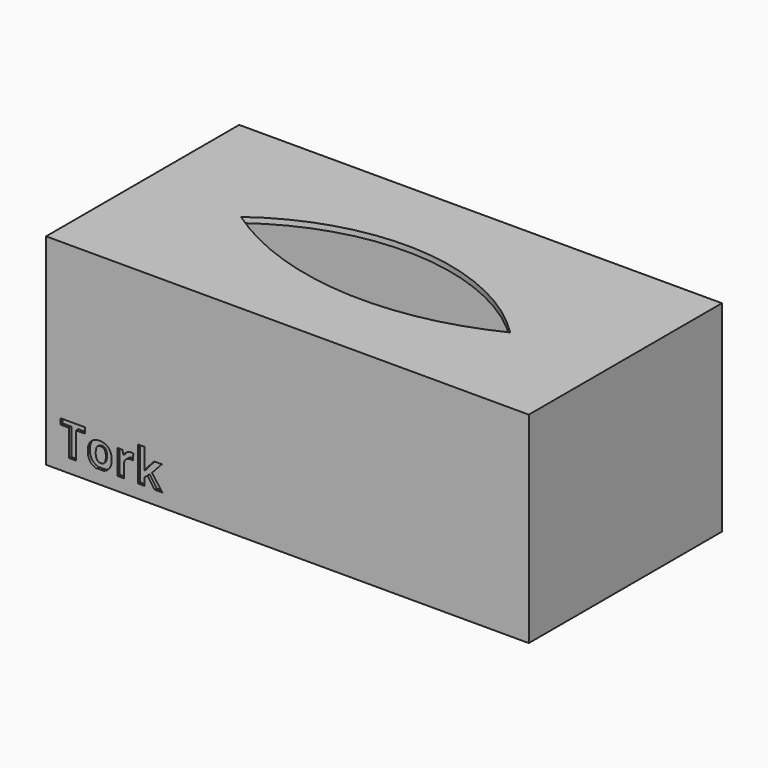
from build123d import *

# Parameters (mm, degrees)
F0_W      = 180
F0_H      = 90
F1_DEPTH  = 75
F2_W      = 80
F2_H      = 68
F3_DEPTH  = 175
F4_W      = 80
F4_H      = 68
F5_DEPTH  = 5
F7_DEPTH  = 25
F9_DEPTH  = 1
F10_DEPTH = 0.5


with BuildPart() as f1:
    # F0 (on Top) → F1 (new body)
    with BuildSketch(Plane.XY):
        Rectangle(F0_W, F0_H)
    extrude(amount=F1_DEPTH)

    # F2 (on face) → F3 (cut)
    with BuildSketch(Plane(origin=(-90, 0, 0), x_dir=(0, -1, 0), z_dir=(-1, 0, 0))):
        with Locations((0, 39)):
            Rectangle(F2_W, F2_H)
    extrude(amount=-F3_DEPTH, mode=Mode.SUBTRACT)

    # F4 (on face) → F5 (join)
    with BuildSketch(Plane(origin=(-90, 0, 0), x_dir=(0, -1, 0), z_dir=(-1, 0, 0))):
        with Locations((0, 39)):
            Rectangle(F4_W, F4_H)
    extrude(amount=-F5_DEPTH)

    # F6 (on face) → F7 (cut, symmetric)
    with BuildSketch(Plane.XY.offset(75)):
        with BuildLine():
            ThreePointArc((53.4038208425, -7.8985784203), (1.5108137294, 15.9196343033), (-53.3230871735, 0))
            ThreePointArc((-53.3230871735, 0), (-1.0370293111, -18.5072454911), (53.4038208425, -7.8985784203))
        make_face()
    extrude(amount=F7_DEPTH, both=True, mode=Mode.SUBTRACT)

    # F8 (on face) → F9 (cut)
    with BuildSketch(Plane.XZ.offset(45)):
        Polygon((-81.387918066, 14.9286104324), (-81.387918066, 5), (-78.8312283214, 5), (-78.8312283214, 14.9286104324), (-75.5595097627, 14.9286104324), (-75.5595097627, 17.0552274955), (-84.6622751074, 17.0552274955), (-84.6622751074, 14.9286104324), align=None)
        with BuildLine():
            add(Edge.make_bspline(
                [(-71.3481548896, 5), (-71.8881241204, 5.1447529863), (-72.3603494786, 5.4155610266)],
                knots=[0.5345224838, 0.5345224838, 0.5345224838, 1, 1, 1], degree=2))
            Line((-71.3481548896, 5), (-68.6078073449, 5))
            add(Edge.make_bspline(
                [(-66.7126772409, 6.1042050135), (-67.4705184641, 5.2933149046), (-68.6078073449, 5)],
                knots=[0, 0, 0, 0.6382803275, 0.6382803275, 0.6382803275], degree=2))
            add(Edge.make_bspline(
                [(-65.525360022, 9.6252601882), (-65.525360022, 7.3746344377), (-66.7126772409, 6.1042050135)],
                knots=[0, 0, 0, 1, 1, 1], degree=2))
            add(Edge.make_bspline(
                [(-66.06888746, 12.156884347), (-65.525360022, 11.0764256779), (-65.525360022, 9.6252601882)],
                knots=[0, 0, 0, 1, 1, 1], degree=2))
            add(Edge.make_bspline(
                [(-67.6269114994, 13.813851488), (-66.6124148979, 13.2373430162), (-66.06888746, 12.156884347)],
                knots=[0, 0, 0, 1, 1, 1], degree=2))
            add(Edge.make_bspline(
                [(-69.9685649032, 14.3903599599), (-68.6414081008, 14.3903599599), (-67.6269114994, 13.813851488)],
                knots=[0, 0, 0, 1, 1, 1], degree=2))
            add(Edge.make_bspline(
                [(-73.2838184266, 13.1370806733), (-72.1057358972, 14.3903599599), (-69.9685649032, 14.3903599599)],
                knots=[0, 0, 0, 1, 1, 1], degree=2))
            add(Edge.make_bspline(
                [(-74.461900956, 9.6252601882), (-74.461900956, 11.8838013867), (-73.2838184266, 13.1370806733)],
                knots=[0, 0, 0, 1, 1, 1], degree=2))
            add(Edge.make_bspline(
                [(-73.918373518, 7.0857205811), (-74.461900956, 8.1740946984), (-74.461900956, 9.6252601882)],
                knots=[0, 0, 0, 1, 1, 1], degree=2))
            add(Edge.make_bspline(
                [(-72.3603494786, 5.4155610266), (-73.37484608, 5.9973464638), (-73.918373518, 7.0857205811)],
                knots=[0, 0, 0, 1, 1, 1], degree=2))
        make_face()
        with BuildLine():
            add(Edge.make_bspline(
                [(-71.8999342459, 9.6252601882), (-71.8999342459, 8.2558876624), (-71.4500729441, 7.5553705033)],
                knots=[0, 0, 0, 1, 1, 1], degree=2))
            add(Edge.make_bspline(
                [(-71.4540306682, 11.6832767009), (-71.8999342459, 11.002548162), (-71.8999342459, 9.6252601882)],
                knots=[0, 0, 0, 1, 1, 1], degree=2))
            add(Edge.make_bspline(
                [(-70.0028651785, 12.3640052397), (-71.0081270904, 12.3640052397), (-71.4540306682, 11.6832767009)],
                knots=[0, 0, 0, 1, 1, 1], degree=2))
            add(Edge.make_bspline(
                [(-68.5424649993, 11.6793189768), (-68.9870493357, 12.3640052397), (-70.0028651785, 12.3640052397)],
                knots=[0, 0, 0, 1, 1, 1], degree=2))
            add(Edge.make_bspline(
                [(-68.0978806629, 9.6252601882), (-68.0978806629, 10.9946327139), (-68.5424649993, 11.6793189768)],
                knots=[0, 0, 0, 1, 1, 1], degree=2))
            add(Edge.make_bspline(
                [(-68.5385072752, 7.5514127792), (-68.0978806629, 8.2479722143), (-68.0978806629, 9.6252601882)],
                knots=[0, 0, 0, 1, 1, 1], degree=2))
            add(Edge.make_bspline(
                [(-69.9870342822, 6.8548533441), (-68.9791338875, 6.8548533441), (-68.5385072752, 7.5514127792)],
                knots=[0, 0, 0, 1, 1, 1], degree=2))
            add(Edge.make_bspline(
                [(-71.4500729441, 7.5553705033), (-71.0002116423, 6.8548533441), (-69.9870342822, 6.8548533441)],
                knots=[0, 0, 0, 1, 1, 1], degree=2))
        make_face(mode=Mode.SUBTRACT)
        with BuildLine():
            Line((-63.4462356476, 5), (-60.9317616263, 5))
            Line((-60.9317616263, 5), (-60.9317616263, 9.6912222559))
            add(Edge.make_bspline(
                [(-60.2589485356, 11.4233861541), (-60.9317616263, 10.8046619589), (-60.9317616263, 9.6912222559)],
                knots=[0, 0, 0, 1, 1, 1], degree=2))
            add(Edge.make_bspline(
                [(-58.3829873298, 12.0421103492), (-59.586135445, 12.0421103492), (-60.2589485356, 11.4233861541)],
                knots=[0, 0, 0, 1, 1, 1], degree=2))
            add(Edge.make_bspline(
                [(-57.6415736887, 11.9603173853), (-57.9476376829, 12.0421103492), (-58.3829873298, 12.0421103492)],
                knots=[0, 0, 0, 1, 1, 1], degree=2))
            Line((-57.6415736887, 11.9603173853), (-57.4516029337, 14.316482444))
            add(Edge.make_bspline(
                [(-58.3011943659, 14.3903599599), (-57.7893287204, 14.3903599599), (-57.4516029337, 14.316482444)],
                knots=[0, 0, 0, 1, 1, 1], degree=2))
            add(Edge.make_bspline(
                [(-59.8882417151, 13.9167523137), (-59.1587012462, 14.3903599599), (-58.3011943659, 14.3903599599)],
                knots=[0, 0, 0, 1, 1, 1], degree=2))
            add(Edge.make_bspline(
                [(-61.0478548655, 12.6674307512), (-60.617782184, 13.4431446675), (-59.8882417151, 13.9167523137)],
                knots=[0, 0, 0, 1, 1, 1], degree=2))
            Line((-61.0478548655, 12.6674307512), (-61.1692250701, 12.6674307512))
            Line((-61.1692250701, 12.6674307512), (-61.541251132, 14.2188585838))
            Line((-61.541251132, 14.2188585838), (-63.4462356476, 14.2188585838))
            Line((-63.4462356476, 14.2188585838), (-63.4462356476, 5))
        make_face()
        Polygon((-49.5282393598, 5), (-46.6259083804, 5), (-50.5097549274, 10.2189187976), (-46.8501794106, 14.2188585838), (-49.6865483223, 14.2188585838), (-52.2669844113, 11.4141514646), (-53.3619547354, 10.0131171463), (-53.3962550106, 10.0131171463), (-53.2643308752, 12.1080724169), (-53.2643308752, 17.8309414119), (-55.7788048965, 17.8309414119), (-55.7788048965, 5), (-53.2643308752, 5), (-53.2643308752, 7.8706691869), (-52.1825529647, 8.7360915154), align=None)
    extrude(amount=-F9_DEPTH, mode=Mode.SUBTRACT)

    # F10 (cut): a face of the model
    f10_faces = [f1.faces().sort_by_distance(p)[0] for p in [
        (-69.997731823, -45, 9.6131266582),
    ]]
    extrude(f10_faces, amount=-F10_DEPTH, mode=Mode.SUBTRACT)


solid = f1.part
